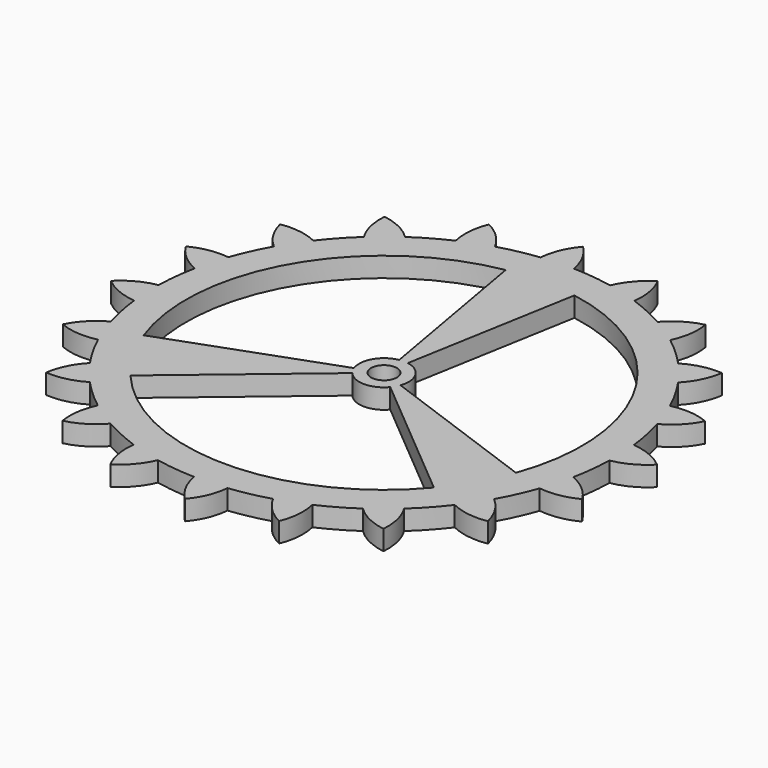
from build123d import *

# Parameters (mm, degrees)
F0_R      = 59.055
F1_DEPTH  = 5.08
F3_DEPTH  = 5.08
F4_COUNT  = 20
F5_R      = 50.8
F6_DEPTH  = 5.081
F7_DEPTH  = 5.081
F9_DEPTH  = 5.08
F10_COUNT = 3
F11_R     = 3.302
F12_DEPTH = 5.081


with BuildPart() as f1:
    # F0 (on Top) → F1 (new body)
    with BuildSketch(Plane.XY):
        Circle(F0_R)
    extrude(amount=F1_DEPTH)

    # F4: F3 ×20 about axis
    f4_axis = Axis((0, 0, 5.08), (0, 0, 1))


with BuildPart() as f3:
    # F2 (on face) → F3 (new body, through all)
    with BuildSketch(Plane.XY.offset(5.08)):
        with BuildLine():
            Line((-6.7921649906, 58.5710500385), (1.5174926213, 58.9440295875))
            ThreePointArc((1.5174926213, 58.9440295875), (-0.0730129244, 63.6408133417), (-3.035026947, 67.6177416104))
            ThreePointArc((-3.035026947, 67.6177416104), (-5.6288384248, 63.3914397349), (-6.7921649906, 58.5710500385))
        make_face()
    extrude(amount=-F3_DEPTH)


with BuildPart() as f1_1:
    add(f1.part)
    for i in range(1, F4_COUNT):
        add(f3.part.rotate(f4_axis, i * 360 / F4_COUNT))

    # F5 (on face) → F6 (cut, through all)
    with BuildSketch(Plane.XY.offset(5.08)):
        Circle(F5_R)
    extrude(amount=-F6_DEPTH, mode=Mode.SUBTRACT)

    # F5 (on face) → F7 (cut, through all)
    with BuildSketch(Plane.XY.offset(5.08)):
        Circle(F5_R)
    extrude(amount=-F7_DEPTH, mode=Mode.SUBTRACT)



with BuildPart() as f9:
    # F8 (on face) → F9 (new body, through all)
    with BuildSketch(Plane.XY.offset(5.08)):
        with BuildLine():
            Line((-8.8213274255, 50.028233853), (-1.1026659282, 6.2535292316))
            ThreePointArc((-1.1026659282, 6.2535292316), (0, -6.35), (1.1026659282, 6.2535292316))
            Line((1.1026659282, 6.2535292316), (8.8213274255, 50.028233853))
            ThreePointArc((8.8213274255, 50.028233853), (0, 50.8), (-8.8213274255, 50.028233853))
        make_face()
    extrude(amount=-F9_DEPTH)


with BuildPart() as f1_2:
    add(f1_1.part)

    add(f3.part)  # F10 merges F3

    add(f9.part)  # F10 merges F9
    # F10: F9 ×3 about axis
    f10_axis = Axis((0, 0, 5.08), (0, 0, 1))
    for i in range(1, F10_COUNT):
        add(f9.part.rotate(f10_axis, i * 360 / F10_COUNT))

    # F11 (on face) → F12 (cut, through all)
    with BuildSketch(Plane.XY.offset(5.08)):
        Circle(F11_R)
    extrude(amount=-F12_DEPTH, mode=Mode.SUBTRACT)


solid = f1_2.part
